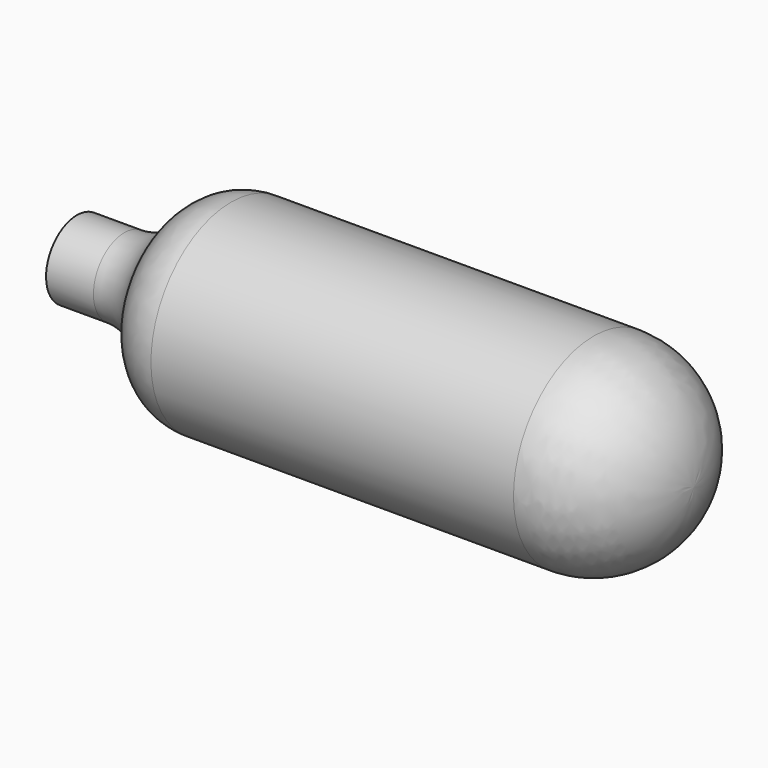
from build123d import *


with BuildPart() as f1:
    # F0 (on Front) → F1 (revolve)
    with BuildSketch(Plane.XZ):
        with BuildLine():
            Line((0, 3.96875), (0, 0))
            Line((0, 0), (63.5, 0))
            Line((63.5, 0), (63.5, 0.00635))
            ThreePointArc((63.5, 0.00635), (60.479568, 7.298318), (53.1876, 10.31875))
            Line((53.1876, 10.31875), (15.875, 10.31875))
            ThreePointArc((15.875, 10.31875), (12.7, 9.468011), (10.375739, 7.14375))
            ThreePointArc((10.375739, 7.14375), (8.051477, 4.819489), (4.876477, 3.96875))
            Line((4.876477, 3.96875), (3.175, 3.96875))
            Line((3.175, 3.96875), (0, 3.96875))
        make_face()
    revolve(axis=Axis((31.75, 0, 0), (1, 0, 0)))


solid = f1.part
